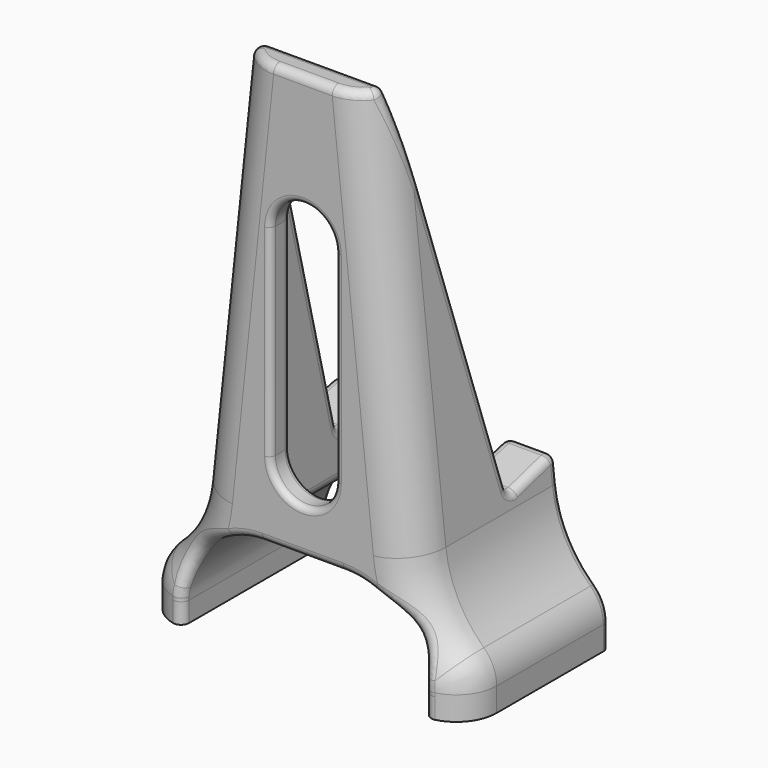
from build123d import *

# Parameters (mm, degrees)
BOX006_W               = 10
BOX006_H               = 15
BOX006_DEPTH           = 66
FILLET021_R            = 8
BOX004_W               = 30
BOX004_H               = 60
BOX004_DEPTH           = 130
BOX004_PLACEMENT_ANGLE = 14
FILLET004_R            = 2
BOX005_W               = 30
BOX005_H               = 60
BOX005_DEPTH           = 30
FILLET020_R            = 20
BOX002_W               = 50
BOX002_H               = 50
BOX002_DEPTH           = 160
BOX002_PLACEMENT_ANGLE = 6
CHAMFER001_SIZE        = 15
FILLET017_R            = 30
BOX_W                  = 30
BOX_H                  = 60
BOX_DEPTH              = 112
FILLET_R               = 4
FILLET001_R            = 8
BOX001_W               = 40
BOX001_H               = 45
BOX001_DEPTH           = 130
FILLET018_R            = 10
FILLET019_R            = 10
FILLET022_R            = 3
FILLET023_R            = 1.5
FILLET024_R            = 2
FILLET025_R            = 2
FILLET026_R            = 2
FILLET027_R            = 2
FILLET028_R            = 2


with BuildPart() as fillet021:
    # Box006 → Box006 (new body)
    with BuildSketch(Plane(origin=(-8, -5, 36), x_dir=(1, 0, 0), z_dir=(0, 0, 1))):
        with Locations((5, 7.5)):
            Rectangle(BOX006_W, BOX006_H)
    extrude(amount=BOX006_DEPTH)

    # Fillet021
    fillet021_edges = [fillet021.edges().sort_by_distance(p)[0] for p in [
        (-8, 2.5, 102),
        (-8, 2.5, 36),
    ]]
    fillet(fillet021_edges, radius=FILLET021_R)


with BuildPart() as fillet004:
    # Box004 → Box004 (new body)
    with BuildSketch(Plane.XY):
        with Locations((15, 30)):
            Rectangle(BOX004_W, BOX004_H)
    extrude(amount=BOX004_DEPTH)


with BuildPart() as fillet004_1:
    # Box004 placement: moved
    add(fillet004.part.moved(Location((-30, 30, 35))).rotate(Axis((-30, 30, 35), (1, 0, 0)), BOX004_PLACEMENT_ANGLE))

    # Fillet004
    fillet004_edges = [fillet004_1.edges().sort_by_distance(p)[0] for p in [
        (-15, 30, 35),
        (-15, 88.217744, 49.515314),
    ]]
    fillet(fillet004_edges, radius=FILLET004_R)


with BuildPart() as fusion004:
    # Box005 → Box005 (new body)
    with BuildSketch(Plane(origin=(-30, -5, -5), x_dir=(1, 0, 0), z_dir=(0, 0, 1))):
        with Locations((15, 30)):
            Rectangle(BOX005_W, BOX005_H)
    extrude(amount=BOX005_DEPTH)

    # Fillet020
    fillet020_edges = [fusion004.edges().sort_by_distance(p)[0] for p in [
        (-30, 25, 25),
    ]]
    fillet(fillet020_edges, radius=FILLET020_R)

    # Fusion004: union Fillet021, Fillet004
    add(fillet021.part)
    add(fillet004_1.part)


with BuildPart() as fillet017:
    # Box002 → Box002 (new body)
    with BuildSketch(Plane.XY):
        with Locations((25, 25)):
            Rectangle(BOX002_W, BOX002_H)
    extrude(amount=BOX002_DEPTH)


with BuildPart() as fillet017_1:
    # Box002 placement: moved
    add(fillet017.part.moved(Location((-80, 0, 10))).rotate(Axis((-80, 0, 10), (0, 1, 0)), BOX002_PLACEMENT_ANGLE))

    # Chamfer001
    chamfer001_edges = [fillet017_1.edges().sort_by_distance(p)[0] for p in [
        (-30.273905, 25, 4.773577),
    ]]
    chamfer(chamfer001_edges, length=CHAMFER001_SIZE)

    # Fillet017
    fillet017_edges = [fillet017_1.edges().sort_by_distance(p)[0] for p in [
        (-28.705978, 25, 19.691405),
    ]]
    fillet(fillet017_edges, radius=FILLET017_R)


with BuildPart() as fusion:
    # Box → Box (new body)
    with BuildSketch(Plane(origin=(-15, 6, 0), x_dir=(1, 0, 0), z_dir=(0, 0, 1))):
        with Locations((15, 30)):
            Rectangle(BOX_W, BOX_H)
    extrude(amount=BOX_DEPTH)

    # Fillet
    fillet_edges = [fusion.edges().sort_by_distance(p)[0] for p in [
        (-15, 6, 56),
        (15, 6, 56),
    ]]
    fillet(fillet_edges, radius=FILLET_R)

    # Fillet001
    fillet001_edges = [fusion.edges().sort_by_distance(p)[0] for p in [
        (0, 6, 112),
    ]]
    fillet(fillet001_edges, radius=FILLET001_R)

    # Fusion: union Fillet017
    add(fillet017_1.part)


with BuildPart() as fillet028:
    # Box001 → Box001 (new body)
    with BuildSketch(Plane(origin=(-40, 0, 0), x_dir=(1, 0, 0), z_dir=(0, 0, 1))):
        with Locations((20, 22.5)):
            Rectangle(BOX001_W, BOX001_H)
    extrude(amount=BOX001_DEPTH)

    # Cut: cut Fusion
    add(fusion.part, mode=Mode.SUBTRACT)

    # Fillet018
    fillet018_edges = [fillet028.edges().sort_by_distance(p)[0] for p in [
        (-40, 22.5, 10.545687),
    ]]
    fillet(fillet018_edges, radius=FILLET018_R)

    # Fillet019
    fillet019_edges = [fillet028.edges().sort_by_distance(p)[0] for p in [
        (-22.259571, 0, 81.024869),
    ]]
    fillet(fillet019_edges, radius=FILLET019_R)

    # Cut001: cut Fusion004
    add(fusion004.part, mode=Mode.SUBTRACT)

    # Fillet022
    fillet022_edges = [fillet028.edges().sort_by_distance(p)[0] for p in [
        (-15, 27.5, 24.364917),
    ]]
    fillet(fillet022_edges, radius=FILLET022_R)

    # Fillet023
    fillet023_edges = [fillet028.edges().sort_by_distance(p)[0] for p in [
        (-8, 0, 69),
        (-8, 6, 69),
    ]]
    fillet(fillet023_edges, radius=FILLET023_R)

    # Fillet024
    fillet024_edges = [fillet028.edges().sort_by_distance(p)[0] for p in [
        (-20.851949, 45, 38.73992),
    ]]
    fillet(fillet024_edges, radius=FILLET024_R)

    # Fillet025
    fillet025_edges = [fillet028.edges().sort_by_distance(p)[0] for p in [
        (-15, 21.156262, 70.470296),
    ]]
    fillet(fillet025_edges, radius=FILLET025_R)

    # Fillet026
    fillet026_edges = [fillet028.edges().sort_by_distance(p)[0] for p in [
        (-30.403205, 45, 21.782595),
    ]]
    fillet(fillet026_edges, radius=FILLET026_R)

    # Fillet027
    fillet027_edges = [fillet028.edges().sort_by_distance(p)[0] for p in [
        (-6.419432, 6.31384, 130),
    ]]
    fillet(fillet027_edges, radius=FILLET027_R)

    # Fillet028
    fillet028_edges = [fillet028.edges().sort_by_distance(p)[0] for p in [
        (-26.853481, 0.807668, 15.76848),
    ]]
    fillet(fillet028_edges, radius=FILLET028_R)


with BuildPart() as part_mirroring:
    # Part__Mirroring: instance of Fillet028
    add(fillet028.part.mirror(Plane(origin=(0, 0, 0), x_dir=(0, -1, 0), z_dir=(1, 0, 0))))


with BuildPart() as holder_v2:
    # Fusion005 base: copy of Fillet028
    add(fillet028.part)

    # Fusion005: union Part__Mirroring
    add(part_mirroring.part)


solid = holder_v2.part
